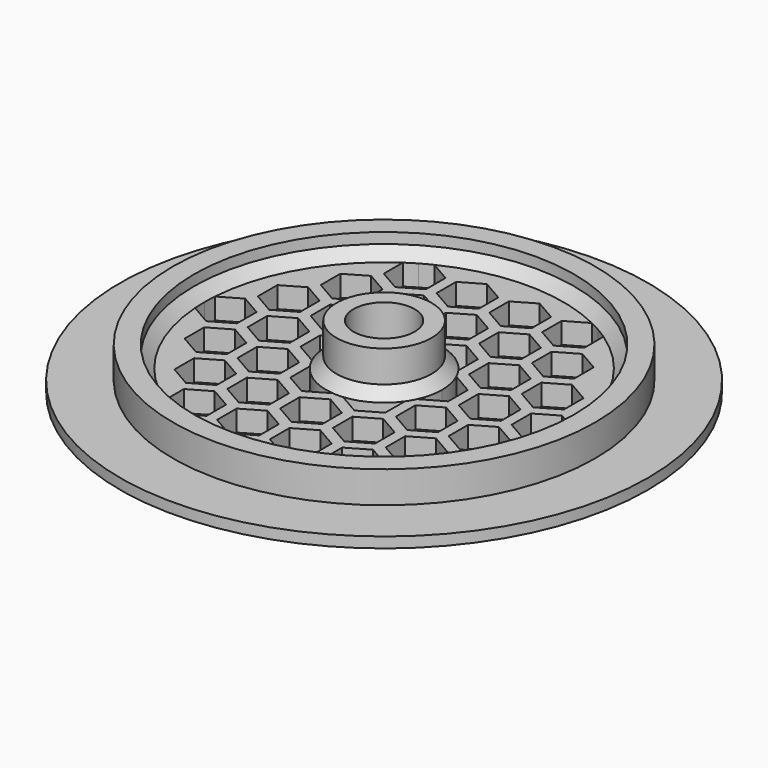
from build123d import *

# Parameters (mm, degrees)
F0_R     = 25
F0_R_2   = 20
F0_R_3   = 2.9
F1_DEPTH = 1
F2_DEPTH = 4
F3_R     = 4.5
F3_R_2   = 2.9
F4_DEPTH = 2
F3_R_3   = 18
F5_DEPTH = 2
F6_SIZE  = 1
F8_DEPTH = 25


with BuildPart() as f1:
    # F0 (on Top) → F1 (new body)
    with BuildSketch(Plane.XY):
        Circle(F0_R)
        Circle(F0_R_2, mode=Mode.SUBTRACT)
        Circle(F0_R_2)
        Circle(F0_R_3, mode=Mode.SUBTRACT)
    extrude(amount=F1_DEPTH)

    # F0 (on Top) → F2 (join)
    with BuildSketch(Plane.XY):
        Circle(F0_R_2)
        Circle(F0_R_3, mode=Mode.SUBTRACT)
    extrude(amount=F2_DEPTH)

    # F3 (on face) → F4 (join)
    with BuildSketch(Plane.XY.offset(4)):
        Circle(F3_R)
        Circle(F3_R_2, mode=Mode.SUBTRACT)
    extrude(amount=F4_DEPTH)

    # F3 (on face) → F5 (cut)
    with BuildSketch(Plane.XY.offset(4)):
        Circle(F3_R_3)
        Circle(F3_R, mode=Mode.SUBTRACT)
    extrude(amount=-F5_DEPTH, mode=Mode.SUBTRACT)

    # F6
    f6_edges = [f1.edges().sort_by_distance(p)[0] for p in [
        (-18, 0, 2),
        (-4.5, 0, 2),
    ]]
    chamfer(f6_edges, length=F6_SIZE)

    # F7 (on face) → F8 (cut)
    with BuildSketch(Plane.XY.offset(2)):
        with BuildLine():
            Line((-7.5, 10.68097998), (-5.5, 11.8356805184))
            Line((-5.5, 11.8356805184), (-5.5, 14.1450815951))
            Line((-5.5, 14.1450815951), (-7.4591154471, 15.2761774259))
            ThreePointArc((-7.4591154471, 15.2761774259), (-7.9843603454, 15.0083306825), (-8.500001244, 14.7224311461))
            ThreePointArc((-8.500001244, 14.7224311461), (-9.0054166851, 14.4188234724), (-9.5, 14.0978721799))
            Line((-9.5, 14.0978721799), (-9.5, 11.8356805184))
            Line((-9.5, 11.8356805184), (-7.5, 10.68097998))
        make_face()
        Polygon((-12, 7.5055534995), (-10, 6.3508529611), (-8, 7.5055534995), (-8, 9.8149545762), (-10, 10.9696551146), (-12, 9.8149545762), align=None)
        Polygon((-7, 7.5055534995), (-5, 6.3508529611), (-3, 7.5055534995), (-3, 9.8149545762), (-5, 10.9696551146), (-7, 9.8149545762), align=None)
        Polygon((-4.5, 11.8356805184), (-2.5, 10.68097998), (-0.5, 11.8356805184), (-0.5, 14.1450815951), (-2.5, 15.2997821335), (-4.5, 14.1450815951), align=None)
        Polygon((0.5, 14.1450815951), (0.5, 11.8356805184), (2.5, 10.68097998), (4.5, 11.8356805184), (4.5, 14.1450815951), (2.5, 15.2997821335), align=None)
        with BuildLine():
            ThreePointArc((8.5000013794, 14.7224310679), (7.9843604144, 15.0083306458), (7.4591154471, 15.2761774259))
            Line((7.4591154471, 15.2761774259), (5.5, 14.1450815951))
            Line((5.5, 14.1450815951), (5.5, 11.8356805184))
            Line((5.5, 11.8356805184), (7.5, 10.68097998))
            Line((7.5, 10.68097998), (9.5, 11.8356805184))
            Line((9.5, 11.8356805184), (9.5, 14.0978721799))
            ThreePointArc((9.5, 14.0978721799), (9.0054167514, 14.418823431), (8.5000013794, 14.7224310679))
        make_face()
        Polygon((-2, 7.5055534995), (0, 6.3508529611), (2, 7.5055534995), (2, 9.8149545762), (0, 10.9696551146), (-2, 9.8149545762), align=None)
        Polygon((3, 9.8149545762), (3, 7.5055534995), (5, 6.3508529611), (7, 7.5055534995), (7, 9.8149545762), (5, 10.9696551146), align=None)
        Polygon((8, 9.8149545762), (8, 7.5055534995), (10, 6.3508529611), (12, 7.5055534995), (12, 9.8149545762), (10, 10.9696551146), align=None)
        Polygon((-12.5, 2.0207259422), (-10.5, 3.1754264805), (-10.5, 5.4848275573), (-12.5, 6.6395280957), (-14.5, 5.4848275573), (-14.5, 3.1754264805), align=None)
        Polygon((-7.5, 2.0207259422), (-5.5, 3.1754264805), (-5.5, 5.4848275573), (-7.5, 6.6395280957), (-9.5, 5.4848275573), (-9.5, 3.1754264805), align=None)
        Polygon((5.5, 5.4848275573), (5.5, 3.1754264805), (7.5, 2.0207259422), (9.5, 3.1754264805), (9.5, 5.4848275573), (7.5, 6.6395280957), align=None)
        Polygon((12.5, 6.6395280957), (10.5, 5.4848275573), (10.5, 3.1754264805), (12.5, 2.0207259422), (14.5, 3.1754264805), (14.5, 5.4848275573), align=None)
        with BuildLine():
            ThreePointArc((17, 0), (16.9897757872, 0.5895071669), (16.9591154471, 1.178305246))
            Line((16.9591154471, 1.178305246), (15, 2.3094010768))
            Line((15, 2.3094010768), (13, 1.1547005384))
            Line((13, 1.1547005384), (13, -1.1547005384))
            Line((13, -1.1547005384), (15, -2.3094010768))
            Line((15, -2.3094010768), (16.9591154471, -1.178305246))
            ThreePointArc((16.9591154471, -1.178305246), (16.9897757872, -0.5895071669), (17, 0))
        make_face()
        Polygon((10, 2.3094010768), (8, 1.1547005384), (8, -1.1547005384), (10, -2.3094010768), (12, -1.1547005384), (12, 1.1547005384), align=None)
        with BuildLine():
            ThreePointArc((5.5, 0), (5.3718614416, -1.1802985435), (4.9934164903, -2.3056000856))
            Line((4.9934164903, -2.3056000856), (5, -2.3094010768))
            Line((5, -2.3094010768), (7, -1.1547005384))
            Line((7, -1.1547005384), (7, 1.1547005384))
            Line((7, 1.1547005384), (5, 2.3094010768))
            Line((5, 2.3094010768), (4.9934164903, 2.3056000856))
            ThreePointArc((4.9934164903, 2.3056000856), (5.3718614416, 1.1802985435), (5.5, 0))
        make_face()
        with BuildLine():
            Line((-5, -2.3094010768), (-4.9934164903, -2.3056000856))
            ThreePointArc((-4.9934164903, -2.3056000856), (-5.5, 0), (-4.9934164903, 2.3056000856))
            Line((-4.9934164903, 2.3056000856), (-5, 2.3094010768))
            Line((-5, 2.3094010768), (-7, 1.1547005384))
            Line((-7, 1.1547005384), (-7, -1.1547005384))
            Line((-7, -1.1547005384), (-5, -2.3094010768))
        make_face()
        with BuildLine():
            Line((-4.5, 3.1754264805), (-4.4934164903, 3.1716254894))
            ThreePointArc((-4.4934164903, 3.1716254894), (-2.75, 4.7631397208), (-0.5, 5.4772255751))
            Line((-0.5, 5.4772255751), (-0.5, 5.4848275573))
            Line((-0.5, 5.4848275573), (-2.5, 6.6395280957))
            Line((-2.5, 6.6395280957), (-4.5, 5.4848275573))
            Line((-4.5, 5.4848275573), (-4.5, 3.1754264805))
        make_face()
        with BuildLine():
            Line((0.5, 5.4848275573), (0.5, 5.4772255751))
            ThreePointArc((0.5, 5.4772255751), (2.75, 4.7631397208), (4.4934164903, 3.1716254894))
            Line((4.4934164903, 3.1716254894), (4.5, 3.1754264805))
            Line((4.5, 3.1754264805), (4.5, 5.4848275573))
            Line((4.5, 5.4848275573), (2.5, 6.6395280957))
            Line((2.5, 6.6395280957), (0.5, 5.4848275573))
        make_face()
        with BuildLine():
            Line((-0.5, -5.4848275573), (-0.5, -5.4772255751))
            ThreePointArc((-0.5, -5.4772255751), (-2.75, -4.7631397208), (-4.4934164903, -3.1716254894))
            Line((-4.4934164903, -3.1716254894), (-4.5, -3.1754264805))
            Line((-4.5, -3.1754264805), (-4.5, -5.4848275573))
            Line((-4.5, -5.4848275573), (-2.5, -6.6395280957))
            Line((-2.5, -6.6395280957), (-0.5, -5.4848275573))
        make_face()
        with BuildLine():
            ThreePointArc((4.4934164903, -3.1716254894), (2.75, -4.7631397208), (0.5, -5.4772255751))
            Line((0.5, -5.4772255751), (0.5, -5.4848275573))
            Line((0.5, -5.4848275573), (2.5, -6.6395280957))
            Line((2.5, -6.6395280957), (4.5, -5.4848275573))
            Line((4.5, -5.4848275573), (4.5, -3.1754264805))
            Line((4.5, -3.1754264805), (4.4934164903, -3.1716254894))
        make_face()
        Polygon((7.5, -2.0207259422), (5.5, -3.1754264805), (5.5, -5.4848275573), (7.5, -6.6395280957), (9.5, -5.4848275573), (9.5, -3.1754264805), align=None)
        Polygon((12.5, -2.0207259422), (10.5, -3.1754264805), (10.5, -5.4848275573), (12.5, -6.6395280957), (14.5, -5.4848275573), (14.5, -3.1754264805), align=None)
        Polygon((-5.5, -5.4848275573), (-5.5, -3.1754264805), (-7.5, -2.0207259422), (-9.5, -3.1754264805), (-9.5, -5.4848275573), (-7.5, -6.6395280957), align=None)
        Polygon((-10, -2.3094010768), (-8, -1.1547005384), (-8, 1.1547005384), (-10, 2.3094010768), (-12, 1.1547005384), (-12, -1.1547005384), align=None)
        with BuildLine():
            Line((-15, 2.3094010768), (-16.9591154471, 1.178305246))
            ThreePointArc((-16.9591154471, 1.178305246), (-16.9897757872, 0.5895071669), (-17, 0))
            ThreePointArc((-17, 0), (-16.9897757872, -0.5895071669), (-16.9591154471, -1.178305246))
            Line((-16.9591154471, -1.178305246), (-15, -2.3094010768))
            Line((-15, -2.3094010768), (-13, -1.1547005384))
            Line((-13, -1.1547005384), (-13, 1.1547005384))
            Line((-13, 1.1547005384), (-15, 2.3094010768))
        make_face()
        Polygon((-14.5, -5.4848275573), (-12.5, -6.6395280957), (-10.5, -5.4848275573), (-10.5, -3.1754264805), (-12.5, -2.0207259422), (-14.5, -3.1754264805), align=None)
        Polygon((-8, -9.8149545762), (-8, -7.5055534995), (-10, -6.3508529611), (-12, -7.5055534995), (-12, -9.8149545762), (-10, -10.9696551146), align=None)
        Polygon((-3, -9.8149545762), (-3, -7.5055534995), (-5, -6.3508529611), (-7, -7.5055534995), (-7, -9.8149545762), (-5, -10.9696551146), align=None)
        Polygon((2, -9.8149545762), (2, -7.5055534995), (0, -6.3508529611), (-2, -7.5055534995), (-2, -9.8149545762), (0, -10.9696551146), align=None)
        Polygon((7, -7.5055534995), (5, -6.3508529611), (3, -7.5055534995), (3, -9.8149545762), (5, -10.9696551146), (7, -9.8149545762), align=None)
        Polygon((12, -7.5055534995), (10, -6.3508529611), (8, -7.5055534995), (8, -9.8149545762), (10, -10.9696551146), (12, -9.8149545762), align=None)
        with BuildLine():
            ThreePointArc((8.499999901, -14.7224319215), (9.0054160274, -14.4188238831), (9.5, -14.0978721799))
            Line((9.5, -14.0978721799), (9.5, -11.8356805184))
            Line((9.5, -11.8356805184), (7.5, -10.68097998))
            Line((7.5, -10.68097998), (5.5, -11.8356805184))
            Line((5.5, -11.8356805184), (5.5, -14.1450815951))
            Line((5.5, -14.1450815951), (7.4591154471, -15.2761774259))
            ThreePointArc((7.4591154471, -15.2761774259), (7.9843596609, -15.0083310466), (8.499999901, -14.7224319215))
        make_face()
        Polygon((4.5, -11.8356805184), (2.5, -10.68097998), (0.5, -11.8356805184), (0.5, -14.1450815951), (2.5, -15.2997821335), (4.5, -14.1450815951), align=None)
        Polygon((-0.5, -14.1450815951), (-0.5, -11.8356805184), (-2.5, -10.68097998), (-4.5, -11.8356805184), (-4.5, -14.1450815951), (-2.5, -15.2997821335), align=None)
        with BuildLine():
            Line((-9.5, -11.8356805184), (-9.5, -14.0978721799))
            ThreePointArc((-9.5, -14.0978721799), (-9.00541558, -14.4188241626), (-8.4999989873, -14.722432449))
            ThreePointArc((-8.4999989873, -14.722432449), (-7.9843591952, -15.0083312944), (-7.4591154471, -15.2761774259))
            Line((-7.4591154471, -15.2761774259), (-5.5, -14.1450815951))
            Line((-5.5, -14.1450815951), (-5.5, -11.8356805184))
            Line((-5.5, -11.8356805184), (-7.5, -10.68097998))
            Line((-7.5, -10.68097998), (-9.5, -11.8356805184))
        make_face()
    extrude(amount=-F8_DEPTH, mode=Mode.SUBTRACT)


solid = f1.part
